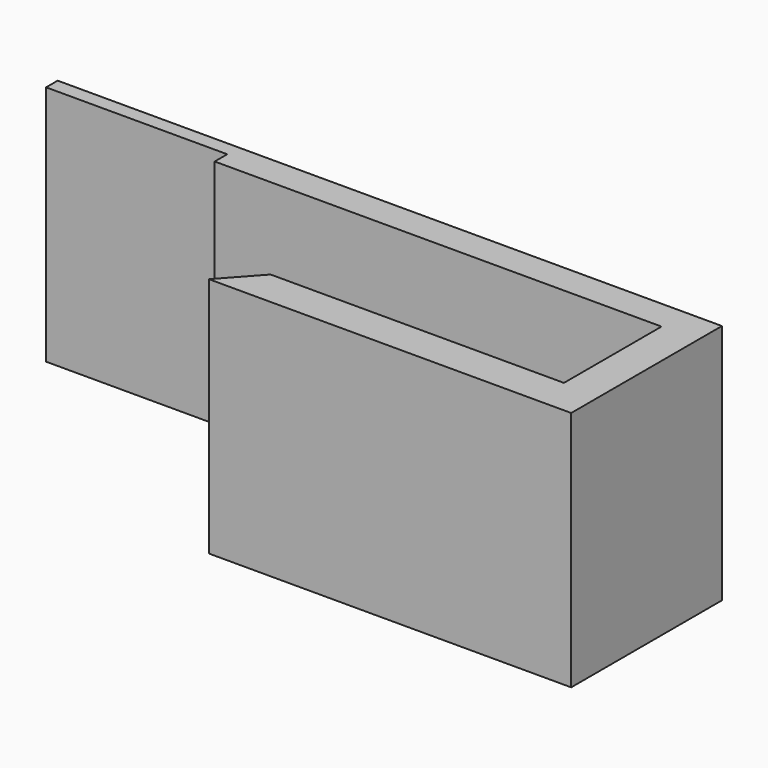
from build123d import *

# Parameters (mm, degrees)
PAD_DEPTH = 20


with BuildPart() as part:
    # Sketch → Pad (new body)
    with BuildSketch(Plane.XY):
        Polygon((-40, 22.5), (-3, 22.5), (-3, 12.4), (-27.293623, 12.4), (-30, 9.4), (0, 9.4), (0, 25), (-55, 25), (-55, 23.8), (-40, 23.8), align=None)
    extrude(amount=PAD_DEPTH)


solid = part.part
